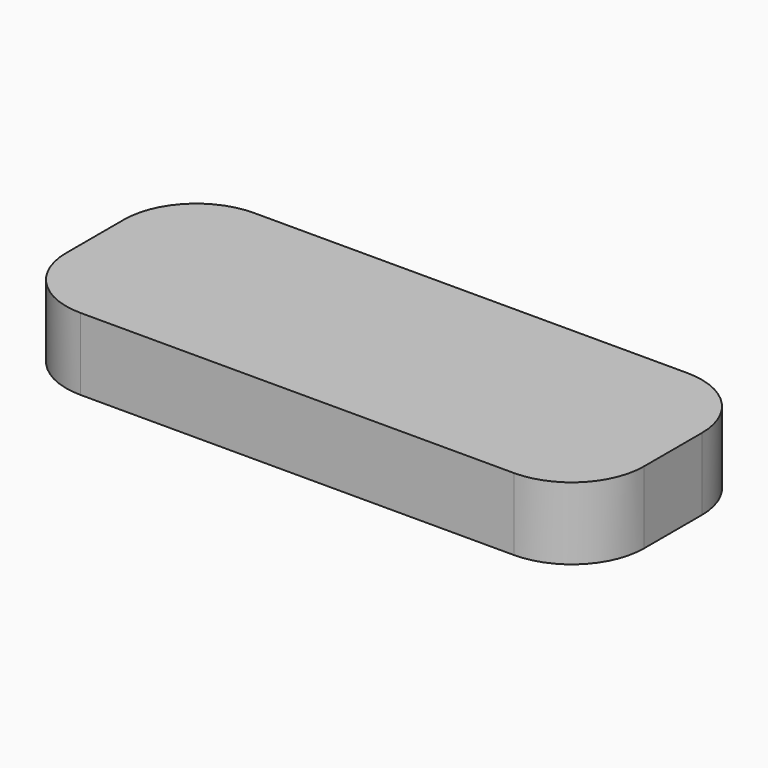
from build123d import *

# Parameters (mm, degrees)
F0_W     = 40
F0_H     = 15
F1_DEPTH = 5
F2_R     = 5
F3_R     = 5


with BuildPart() as f1:
    # F0 (on Top) → F1 (new body)
    with BuildSketch(Plane.XY):
        with Locations((20, -7.5)):
            Rectangle(F0_W, F0_H)
    extrude(amount=F1_DEPTH)

    # F2
    f2_edges = [f1.edges().sort_by_distance(p)[0] for p in [
        (40, -15, 2.5),
        (40, 0, 2.5),
    ]]
    fillet(f2_edges, radius=F2_R)

    # F3
    f3_edges = [f1.edges().sort_by_distance(p)[0] for p in [
        (0, -15, 2.5),
        (0, 0, 2.5),
    ]]
    fillet(f3_edges, radius=F3_R)


solid = f1.part
